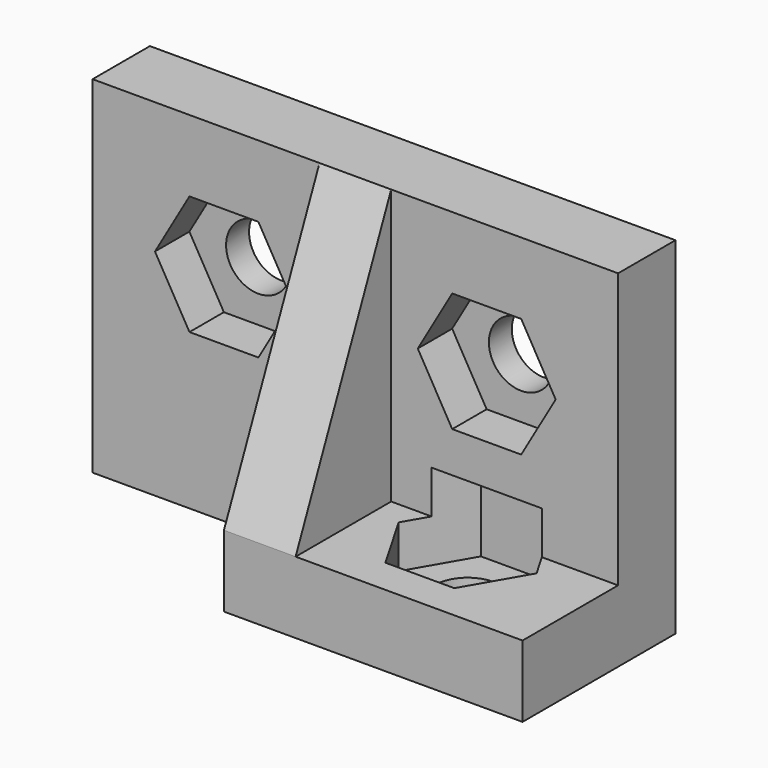
from build123d import *

# Parameters (mm, degrees)
EXTRUDE003_DEPTH  = 3.6
CYLINDER002_R     = 1.35
CYLINDER002_DEPTH = 3
EXTRUDE002_DEPTH  = 1.8
CYLINDER003_R     = 1.35
CYLINDER003_DEPTH = 30
EXTRUDE001_DEPTH  = 1.8
CYLINDER_R        = 1.35
CYLINDER_DEPTH    = 3
BOX_W             = 22
BOX_H             = 3
BOX_DEPTH         = 14.5
BOX001_W          = 12.5
BOX001_H          = 5
BOX001_DEPTH      = 3
EXTRUDE_DEPTH     = 3


with BuildPart() as extrude003:
    # Sketch003 → Extrude003 (new body)
    with BuildSketch(Plane.XY):
        Polygon((2.8868, 0), (1.4434, 2.500042), (-1.4434, 2.500042), (-2.8868, 0), (-1.4434, -2.500042), (1.4434, -2.500042), align=None)
    extrude(amount=EXTRUDE003_DEPTH)


with BuildPart() as extrude003_1:
    # Extrude003 placement: moved
    add(extrude003.part.moved(Location((16.5, -1, 1.2))))


with BuildPart() as hole03:
    # Cylinder002 → Cylinder002 (new body)
    with BuildSketch(Plane(origin=(16.5, -1, 0), x_dir=(0, 1, 0), z_dir=(0, 0, 1))):
        Circle(CYLINDER002_R)
    extrude(amount=CYLINDER002_DEPTH)

    # Fusion002: union Extrude003
    add(extrude003_1.part)


with BuildPart() as extrude002:
    # Sketch002 → Extrude002 (new body)
    with BuildSketch(Plane(origin=(16.5, 1.8, 9), x_dir=(1, 0, 0), z_dir=(0, -1, 0))):
        Polygon((2.8868, 0), (1.4434, 2.500042), (-1.4434, 2.500042), (-2.8868, 0), (-1.4434, -2.500042), (1.4434, -2.500042), align=None)
    extrude(amount=EXTRUDE002_DEPTH)


with BuildPart() as hole02:
    # Cylinder003 → Cylinder003 (new body)
    with BuildSketch(Plane(origin=(16.5, 3, 9), x_dir=(1, 0, 0), z_dir=(0, -1, 0))):
        Circle(CYLINDER003_R)
    extrude(amount=CYLINDER003_DEPTH)

    # Fusion001: union Extrude002
    add(extrude002.part)


with BuildPart() as extrude001:
    # Sketch001 → Extrude001 (new body)
    with BuildSketch(Plane(origin=(5.5, 1.8, 9), x_dir=(1, 0, 0), z_dir=(0, -1, 0))):
        Polygon((2.8868, 0), (1.4434, 2.500042), (-1.4434, 2.500042), (-2.8868, 0), (-1.4434, -2.500042), (1.4434, -2.500042), align=None)
    extrude(amount=EXTRUDE001_DEPTH)


with BuildPart() as hole01:
    # Cylinder → Cylinder (new body)
    with BuildSketch(Plane(origin=(5.5, 3, 9), x_dir=(1, 0, 0), z_dir=(0, -1, 0))):
        Circle(CYLINDER_R)
    extrude(amount=CYLINDER_DEPTH)

    # Fusion: union Extrude001
    add(extrude001.part)


with BuildPart() as cut001:
    # Box → Box (new body)
    with BuildSketch(Plane.XY):
        with Locations((11, 1.5)):
            Rectangle(BOX_W, BOX_H)
    extrude(amount=BOX_DEPTH)

    # Cut: cut Hole01
    add(hole01.part, mode=Mode.SUBTRACT)

    # Cut001: cut Hole02
    add(hole02.part, mode=Mode.SUBTRACT)


with BuildPart() as cut002:
    # Box001 → Box001 (new body)
    with BuildSketch(Plane(origin=(9.5, -5, 0), x_dir=(1, 0, 0), z_dir=(0, 0, 1))):
        with Locations((6.25, 2.5)):
            Rectangle(BOX001_W, BOX001_H)
    extrude(amount=BOX001_DEPTH)

    # Fusion003: union Cut001
    add(cut001.part)

    # Cut002: cut Hole03
    add(hole03.part, mode=Mode.SUBTRACT)


with BuildPart() as left_hand_bracket:
    # Sketch → Extrude (new body)
    with BuildSketch(Plane(origin=(0, 0, 1.4), x_dir=(0, 1, 0), z_dir=(1, 0, 0))):
        Polygon((0, 11.5), (0, 0), (-5, 0), align=None)
    extrude(amount=EXTRUDE_DEPTH)


with BuildPart() as left_hand_bracket_1:
    # Extrude placement: moved
    add(left_hand_bracket.part.moved(Location((9.5, 0, 1.6))))

    # Fusion004: union Cut002
    add(cut002.part)


solid = left_hand_bracket_1.part
